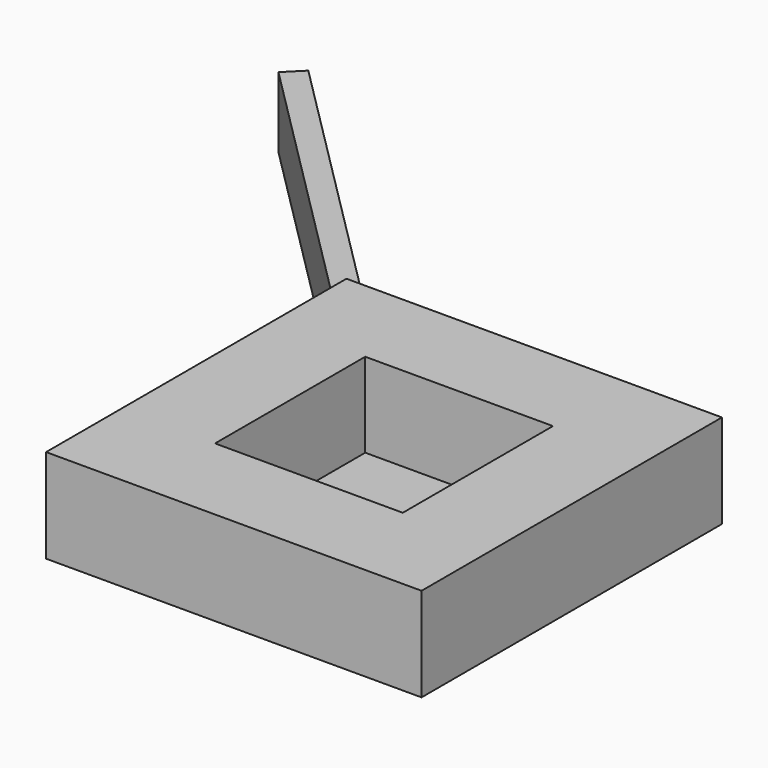
from build123d import *

# Parameters (mm, degrees)
F0_W     = 80
F0_H     = 80
F0_W_2   = 40
F0_H_2   = 40
F1_DEPTH = 20
F2_DEPTH = 2
F5_DEPTH = 7.5


with BuildPart() as f1:
    # F0 (on Top) → F1 (new body)
    with BuildSketch(Plane.XY):
        Rectangle(F0_W, F0_H)
        Rectangle(F0_W_2, F0_H_2, mode=Mode.SUBTRACT)
    extrude(amount=F1_DEPTH)

    # F0 (on Top) → F2 (join)
    with BuildSketch(Plane.XY):
        Rectangle(F0_W_2, F0_H_2)
    extrude(amount=F2_DEPTH)


with BuildPart() as f5:
    # F4 (on mid) → F5 (new body, symmetric)
    with BuildSketch(Plane.XY.offset(10)):
        Polygon((-28.838835, 25.303301), (-25.303301, 28.838835), (-94.800776, 98.336309), (-98.336309, 94.800776), align=None)
    extrude(amount=F5_DEPTH, both=True)


solid = Compound([f1.part, f5.part])
